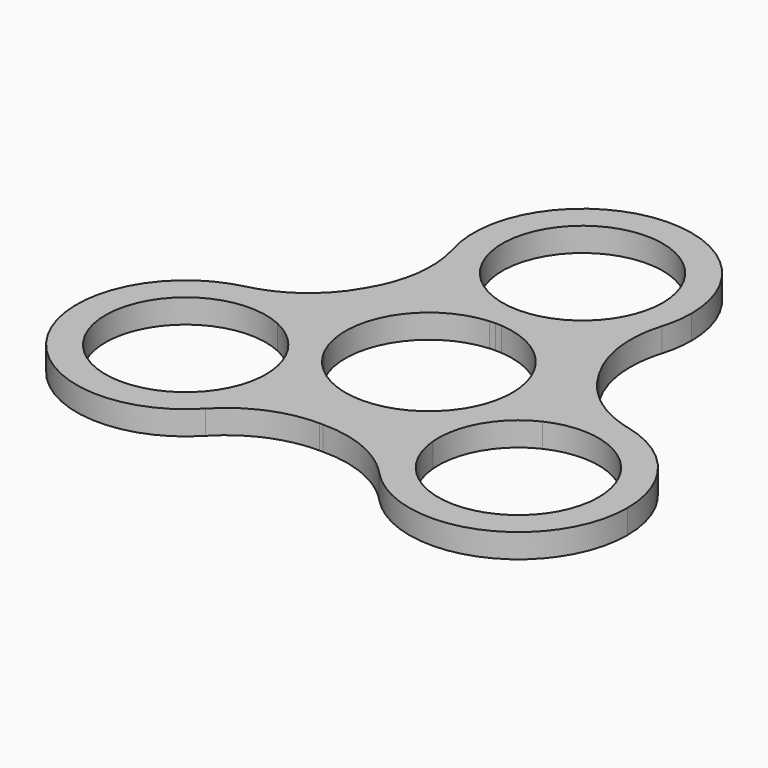
from build123d import *

# Parameters (mm, degrees)
F1_DEPTH = 3.175
F2_R     = 15.24


with BuildPart() as f1:
    # F0 (on Top) → F1 (new body)
    with BuildSketch(Plane.XY):
        with BuildLine():
            ThreePointArc((-0.7964807044, 11.0075218), (-0.3985002187, 11.0291031034), (0, 11.0363))
            Line((0, 11.0363), (0, 14.7955))
            ThreePointArc((0, 14.7955), (-3.1855144618, 15.2852623433), (-6.0767868514, 16.709310625))
            ThreePointArc((-6.0767868514, 16.709310625), (-7.9955151986, 15.8808103291), (-9.803769889, 14.832885625))
            ThreePointArc((-9.803769889, 14.832885625), (-5.6346854623, 12.132440692), (-0.7964807044, 11.0075218))
        make_face()
        with BuildLine():
            Line((0, 14.7955), (0, 11.0363))
            ThreePointArc((0, 11.0363), (0.3985002187, 11.0291031034), (0.7964807044, 11.0075218))
            ThreePointArc((0.7964807044, 11.0075218), (5.6346854623, 12.132440692), (9.803769889, 14.832885625))
            ThreePointArc((9.803769889, 14.832885625), (7.9955151986, 15.8808103291), (6.0767868514, 16.709310625))
            ThreePointArc((6.0767868514, 16.709310625), (3.1855144618, 15.2852623433), (0, 14.7955))
        make_face()
        with BuildLine():
            ThreePointArc((-9.9310338637, -4.8139883763), (-9.5577161638, 5.51815), (-0.7964807044, 11.0075218))
            ThreePointArc((-0.7964807044, 11.0075218), (-5.6346854623, 12.132440692), (-9.803769889, 14.832885625))
            ThreePointArc((-9.803769889, 14.832885625), (-15.3979316793, 8.89), (-17.7475407072, 1.0738709642))
            ThreePointArc((-17.7475407072, 1.0738709642), (-13.3243445803, -1.1864395933), (-9.9310338637, -4.8139883763))
        make_face()
        with BuildLine():
            ThreePointArc((9.803769889, 14.832885625), (5.6346854623, 12.132440692), (0.7964807044, 11.0075218))
            ThreePointArc((0.7964807044, 11.0075218), (8.0805358018, 7.5169713879), (11.0363, 0))
            ThreePointArc((11.0363, 0), (10.7564349745, -2.4696202805), (9.9310338637, -4.8139883763))
            ThreePointArc((9.9310338637, -4.8139883763), (13.3243445803, -1.1864395933), (17.7475407072, 1.0738709642))
            ThreePointArc((17.7475407072, 1.0738709642), (15.3979316793, 8.89), (9.803769889, 14.832885625))
        make_face()
        with BuildLine():
            ThreePointArc((-9.1345531593, -6.1935334237), (-9.5577161638, -5.51815), (-9.9310338637, -4.8139883763))
            ThreePointArc((-9.9310338637, -4.8139883763), (-13.3243445803, -1.1864395933), (-17.7475407072, 1.0738709642))
            ThreePointArc((-17.7475407072, 1.0738709642), (-17.750942777, -1.0160858862), (-17.5090809067, -3.0920035258))
            ThreePointArc((-17.5090809067, -3.0920035258), (-13.0514307386, -7.0051425696), (-11.3925452561, -12.7))
            ThreePointArc((-11.3925452561, -12.7), (-11.4024871162, -13.1590839469), (-11.4322940553, -13.6173070992))
            ThreePointArc((-11.4322940553, -13.6173070992), (-9.7554275784, -14.8647244429), (-7.9437708182, -15.9067565892))
            ThreePointArc((-7.9437708182, -15.9067565892), (-7.6731363163, -14.3135188044), (-7.5825452561, -12.7))
            ThreePointArc((-7.5825452561, -12.7), (-7.9759147279, -9.3554957079), (-9.1345531593, -6.1935334237))
        make_face()
        with BuildLine():
            ThreePointArc((14.4145, 25.4), (-5.7646061958, 38.6116284256), (-9.803769889, 14.832885625))
            ThreePointArc((-9.803769889, 14.832885625), (-7.9955151986, 15.8808103291), (-6.0767868514, 16.709310625))
            ThreePointArc((-6.0767868514, 16.709310625), (-4.8997007095, 34.8046984645), (10.6045, 25.4))
            ThreePointArc((10.6045, 25.4), (9.4046984645, 20.5002992905), (6.0767868514, 16.709310625))
            ThreePointArc((6.0767868514, 16.709310625), (7.9955151986, 15.8808103291), (9.803769889, 14.832885625))
            ThreePointArc((9.803769889, 14.832885625), (13.2116284256, 19.6353938042), (14.4145, 25.4))
        make_face()
        with BuildLine():
            ThreePointArc((9.1345531593, -6.1935334237), (0, -11.0363), (-9.1345531593, -6.1935334237))
            ThreePointArc((-9.1345531593, -6.1935334237), (-7.9759147279, -9.3554957079), (-7.5825452561, -12.7))
            ThreePointArc((-7.5825452561, -12.7), (-7.6731363163, -14.3135188044), (-7.9437708182, -15.9067565892))
            ThreePointArc((-7.9437708182, -15.9067565892), (0, -17.78), (7.9437708182, -15.9067565892))
            ThreePointArc((7.9437708182, -15.9067565892), (7.689659118, -10.9460010987), (9.1345531593, -6.1935334237))
        make_face()
        with BuildLine():
            ThreePointArc((-17.5090809067, -3.0920035258), (-17.750942777, -1.0160858862), (-17.7475407072, 1.0738709642))
            ThreePointArc((-17.7475407072, 1.0738709642), (-34.480368439, -19.90725), (-7.9437708182, -15.9067565892))
            ThreePointArc((-7.9437708182, -15.9067565892), (-9.7554275784, -14.8647244429), (-11.4322940553, -13.6173070992))
            ThreePointArc((-11.4322940553, -13.6173070992), (-31.1808116506, -18.00225), (-17.5090809067, -3.0920035258))
        make_face()
        with BuildLine():
            ThreePointArc((17.7475407072, 1.0738709642), (13.3243445803, -1.1864395933), (9.9310338637, -4.8139883763))
            ThreePointArc((9.9310338637, -4.8139883763), (9.5577161638, -5.51815), (9.1345531593, -6.1935334237))
            ThreePointArc((9.1345531593, -6.1935334237), (7.689659118, -10.9460010987), (7.9437708182, -15.9067565892))
            ThreePointArc((7.9437708182, -15.9067565892), (9.7554275784, -14.8647244429), (11.4322940553, -13.6173070992))
            ThreePointArc((11.4322940553, -13.6173070992), (12.8132788617, -7.39775), (17.5090809067, -3.0920035258))
            ThreePointArc((17.5090809067, -3.0920035258), (17.7121407306, -1.5519248499), (17.78, 0))
            ThreePointArc((17.78, 0), (17.7718833241, 0.5371807083), (17.7475407072, 1.0738709642))
        make_face()
        with BuildLine():
            ThreePointArc((36.4115452561, -12.7), (30.5563480002, -1.1018903788), (17.7475407072, 1.0738709642))
            ThreePointArc((17.7475407072, 1.0738709642), (17.7718833241, 0.5371807083), (17.78, 0))
            ThreePointArc((17.78, 0), (17.7121407306, -1.5519248499), (17.5090809067, -3.0920035258))
            ThreePointArc((17.5090809067, -3.0920035258), (27.6919026866, -3.7543854824), (32.6015452561, -12.7))
            ThreePointArc((32.6015452561, -12.7), (22.456129203, -23.2945581399), (11.4322940553, -13.6173070992))
            ThreePointArc((11.4322940553, -13.6173070992), (9.7554275784, -14.8647244429), (7.9437708182, -15.9067565892))
            ThreePointArc((7.9437708182, -15.9067565892), (23.6105640606, -27.0239089399), (36.4115452561, -12.7))
        make_face()
    extrude(amount=F1_DEPTH)

    # F2
    f2_edges = [f1.edges().sort_by_distance(p)[0] for p in [
        (-9.80377, 14.832886, 1.5875),
        (-17.747541, 1.073871, 1.5875),
        (-7.943771, -15.906757, 1.5875),
        (17.747541, 1.073871, 1.5875),
        (7.943771, -15.906757, 1.5875),
        (9.80377, 14.832886, 1.5875),
    ]]
    fillet(f2_edges, radius=F2_R)


solid = f1.part
